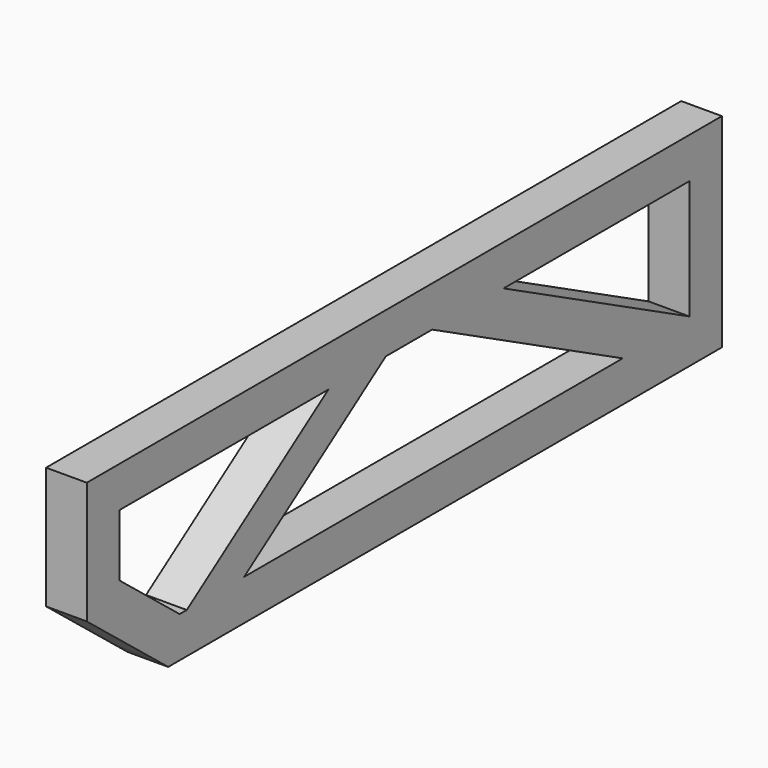
from build123d import *

# Parameters (mm, degrees)
F1_DEPTH = 20


with BuildPart() as f1:
    # F0 (on Right) → F1 (new body, symmetric)
    with BuildSketch(Plane.YZ):
        with BuildLine():
            Line((-304.9687541528, -20), (-368.9999965272, -20))
            Line((-368.9999965272, -20), (-284.617372716, -87.5060990489))
            ThreePointArc((-284.617372716, -87.5060990489), (-282.6313428058, -85.3648915743), (-280.3546556432, -83.5357442817))
            Line((-280.3546556432, -83.5357442817), (-246.2278264348, -60))
            Line((-246.2278264348, -60), (-254.9687541528, -60))
            Line((-254.9687541528, -60), (-304.9687541528, -20))
        make_face()
        Polygon((-175.7721666195, -60), (-233.7721666195, -100), (367.1707894712, -100), (289.1707894712, -60), align=None)
        Polygon((411.0000034728, 100), (64.8292174745, 100), (142.8292174745, 60), (371.0000034728, 60), (371.0000034728, -57.0106594863), (411.0000034728, -77.5234799992), align=None)
        with BuildLine():
            Line((64.8292174745, 100), (41.0000034728, 100))
            ThreePointArc((41.0000034728, 100), (40.4412866754, 95.3056941474), (38.7963527291, 90.8736670481))
            Line((38.7963527291, 90.8736670481), (99.0000034728, 60))
            Line((99.0000034728, 60), (142.8292174745, 60))
            Line((142.8292174745, 60), (64.8292174745, 100))
        make_face()
        with BuildLine():
            Line((99.0000034728, 60), (38.7963527291, 90.8736670481))
            ThreePointArc((38.7963527291, 90.8736670481), (36.0301930895, 86.8055541955), (32.3546625889, 83.5357442817))
            Line((32.3546625889, 83.5357442817), (22.5123293603, 76.747928262))
            Line((22.5123293603, 76.747928262), (55.1707894712, 60))
            Line((55.1707894712, 60), (99.0000034728, 60))
        make_face()
        Polygon((22.5123293603, 76.747928262), (-1.7721666195, 60), (55.1707894712, 60), align=None)
        with BuildLine():
            ThreePointArc((11.8736705209, 82.2036507437), (7.8055576683, 84.9698103834), (4.5357477545, 88.6453408839))
            Line((4.5357477545, 88.6453408839), (-36.9999965272, 60))
            Line((-36.9999965272, 60), (-1.7721666195, 60))
            Line((-1.7721666195, 60), (22.5123293603, 76.747928262))
            Line((22.5123293603, 76.747928262), (11.8736705209, 82.2036507437))
        make_face()
        with BuildLine():
            Line((1.0000034728, 100), (-14.2278264348, 100))
            Line((-14.2278264348, 100), (-72.2278264348, 60))
            Line((-72.2278264348, 60), (-36.9999965272, 60))
            Line((-36.9999965272, 60), (4.5357477545, 88.6453408839))
            ThreePointArc((4.5357477545, 88.6453408839), (1.9043872957, 94.0537875234), (1.0000034728, 100))
        make_face()
        with BuildLine():
            Line((21.0000034728, 100), (1.0000034728, 100))
            ThreePointArc((1.0000034728, 100), (1.9043872957, 94.0537875234), (4.5357477545, 88.6453408839))
            Line((4.5357477545, 88.6453408839), (21.0000034728, 100))
        make_face()
        with BuildLine():
            Line((38.7963527291, 90.8736670481), (21.0000034728, 100))
            Line((21.0000034728, 100), (4.5357477545, 88.6453408839))
            ThreePointArc((4.5357477545, 88.6453408839), (7.8055576683, 84.9698103834), (11.8736705209, 82.2036507437))
            Line((11.8736705209, 82.2036507437), (22.5123293603, 76.747928262))
            Line((22.5123293603, 76.747928262), (32.3546625889, 83.5357442817))
            ThreePointArc((32.3546625889, 83.5357442817), (36.0301930895, 86.8055541955), (38.7963527291, 90.8736670481))
        make_face()
        with BuildLine():
            Line((41.0000034728, 100), (21.0000034728, 100))
            Line((21.0000034728, 100), (38.7963527291, 90.8736670481))
            ThreePointArc((38.7963527291, 90.8736670481), (40.4412866754, 95.3056941474), (41.0000034728, 100))
        make_face()
        Polygon((-368.9999965272, 100), (-368.9999965272, 0), (-368.9999965272, -20), (-304.9687541528, -20), (-328.9999965272, -0.7750061005), (-328.9999965272, 60), (-72.2278264348, 60), (-14.2278264348, 100), align=None)
        Polygon((-210.9999965272, -60), (-268.9999965272, -100), (-233.7721666195, -100), (-175.7721666195, -60), align=None)
        with BuildLine():
            ThreePointArc((-280.3546556432, -83.5357442817), (-282.6313428058, -85.3648915743), (-284.617372716, -87.5060990489))
            Line((-284.617372716, -87.5060990489), (-268.9999965272, -100))
            Line((-268.9999965272, -100), (-210.9999965272, -60))
            Line((-210.9999965272, -60), (-246.2278264348, -60))
            Line((-246.2278264348, -60), (-280.3546556432, -83.5357442817))
        make_face()
        Polygon((-36.9999965272, 60), (-72.2278264348, 60), (-246.2278264348, -60), (-210.9999965272, -60), align=None)
        Polygon((-36.9999965272, 60), (-210.9999965272, -60), (-175.7721666195, -60), (-1.7721666195, 60), align=None)
        Polygon((55.1707894712, 60), (289.1707894712, -60), (333.0000034728, -60), (99.0000034728, 60), align=None)
        Polygon((142.8292174745, 60), (99.0000034728, 60), (333.0000034728, -60), (371.0000034728, -60), (371.0000034728, -57.0106594863), align=None)
        Polygon((289.1707894712, -60), (367.1707894712, -100), (411.0000034728, -100), (333.0000034728, -60), align=None)
        Polygon((333.0000034728, -60), (411.0000034728, -100), (411.0000034728, -77.5234799992), (371.0000034728, -57.0106594863), (371.0000034728, -60), align=None)
    extrude(amount=F1_DEPTH, both=True)


solid = f1.part
